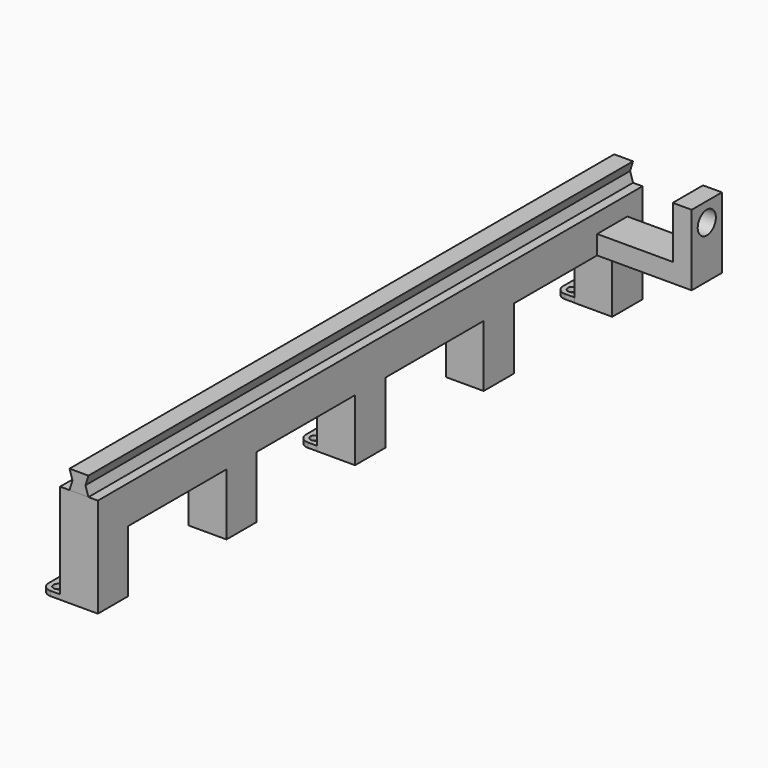
from build123d import *

# Parameters (mm, degrees)
F1_DEPTH  = 50.8
F3_DEPTH  = 914.4
F6_DEPTH  = 50.8
F8_R      = 6.35
F9_DEPTH  = 6.35
F11_R     = 15.24
F12_DEPTH = 25.4


with BuildPart() as f1:
    # F0 (on Right) → F1 (new body)
    with BuildSketch(Plane.YZ):
        Polygon((914.4, 0), (0, 0), (0, -133.731), (50.8, -133.731), (50.8, -50.8), (215.9, -50.8), (215.9, -133.731), (266.7, -133.731), (266.7, -50.8), (431.8, -50.8), (431.8, -133.731), (482.6, -133.731), (482.6, -50.8), (647.7, -50.8), (647.7, -133.731), (698.5, -133.731), (698.5, -50.8), (863.6, -50.8), (863.6, -133.731), (914.4, -133.731), align=None)
    extrude(amount=F1_DEPTH)

    # F5 (on offset) → F6 (join)
    with BuildSketch(Plane.XZ.offset(-838.2)):
        Polygon((152.4, 44.45), (152.4, -25.4), (0, -25.4), (0, -50.8), (177.8, -50.8), (177.8, 44.45), align=None)
    extrude(amount=-F6_DEPTH)

    # F8 (on offset) → F9 (join)
    with BuildSketch(Plane(origin=(0, 0, -133.731), x_dir=(1, 0, 0), z_dir=(0, 0, -1))):
        with BuildLine():
            Line((0, -51.0998591781), (0, 0))
            Line((0, 0), (-12.7, 0))
            ThreePointArc((-12.7, 0), (-21.6802561211, -3.7197438789), (-25.4, -12.7))
            Line((-25.4, -12.7), (-25.4, -38.3998591781))
            ThreePointArc((-25.4, -38.3998591781), (-21.6802561211, -47.3801152991), (-12.7, -51.0998591781))
            Line((-12.7, -51.0998591781), (0, -51.0998591781))
        make_face()
        with Locations((-12.7, -38.3998591781)):
            Circle(F8_R, mode=Mode.SUBTRACT)
        with Locations((-12.7, -12.7)):
            Circle(F8_R, mode=Mode.SUBTRACT)
        with BuildLine():
            Line((0, -914.598941803), (0, -863.798941803))
            Line((0, -863.798941803), (-12.7, -863.798941803))
            ThreePointArc((-12.7, -863.798941803), (-21.6802561211, -867.5186856819), (-25.4, -876.498941803))
            Line((-25.4, -876.498941803), (-25.4, -901.898941803))
            ThreePointArc((-25.4, -901.898941803), (-21.6802561211, -910.879197924), (-12.7, -914.598941803))
            Line((-12.7, -914.598941803), (0, -914.598941803))
        make_face()
        with Locations((-12.7, -901.898941803)):
            Circle(F8_R, mode=Mode.SUBTRACT)
        with Locations((-12.7, -876.498941803)):
            Circle(F8_R, mode=Mode.SUBTRACT)
        with BuildLine():
            Line((0, -482.620716095), (0, -431.820716095))
            Line((0, -431.820716095), (-12.7, -431.820716095))
            ThreePointArc((-12.7, -431.820716095), (-21.6802561211, -435.5404599739), (-25.4, -444.520716095))
            Line((-25.4, -444.520716095), (-25.4, -469.920716095))
            ThreePointArc((-25.4, -469.920716095), (-21.6802561211, -478.900972216), (-12.7, -482.620716095))
            Line((-12.7, -482.620716095), (0, -482.620716095))
        make_face()
        with Locations((-12.7, -469.920716095)):
            Circle(F8_R, mode=Mode.SUBTRACT)
        with Locations((-12.7, -444.520716095)):
            Circle(F8_R, mode=Mode.SUBTRACT)
    extrude(amount=-F9_DEPTH)

    # F11 (on offset) → F12 (cut)
    with BuildSketch(Plane.YZ.offset(177.8)):
        with Locations((863.6, 19.05)):
            Circle(F11_R)
    extrude(amount=-F12_DEPTH, mode=Mode.SUBTRACT)


with BuildPart() as f3:
    # F2 (on Front) → F3 (new body)
    with BuildSketch(Plane.XZ):
        Polygon((16.6332703084, 12.7), (12.7, 0), (38.1, 0), (34.1667296916, 12.7), (38.1, 25.4), (12.7, 25.4), align=None)
    extrude(amount=-F3_DEPTH)


solid = Compound([f1.part, f3.part])
